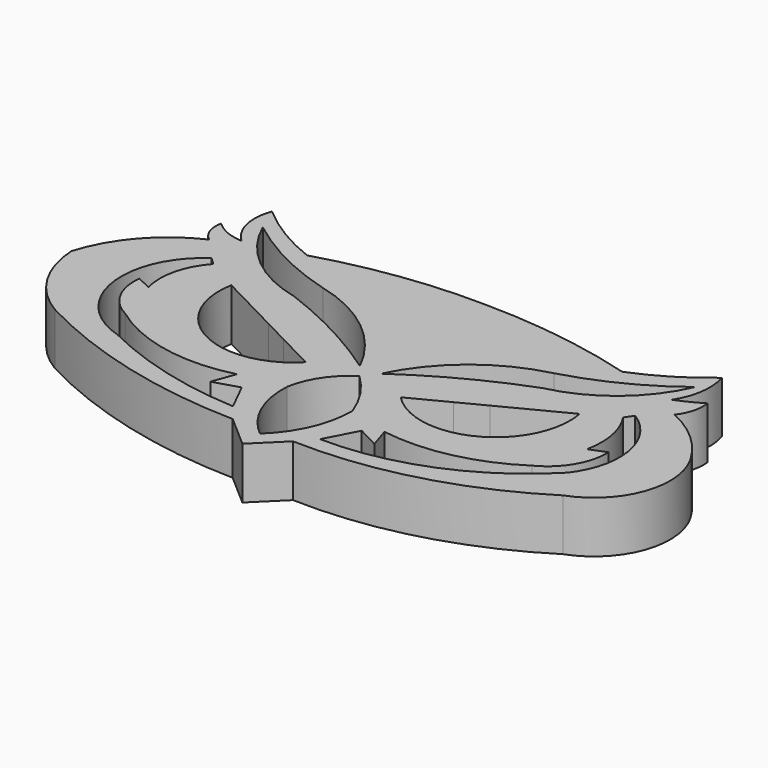
from build123d import *

# Parameters (mm, degrees)
F1_DEPTH = 7


with BuildPart() as f1:
    # F0 (on Top) → F1 (new body)
    with BuildSketch(Plane.XY):
        with BuildLine():
            ThreePointArc((-33.1978872418, 24.7798599303), (-33.0834757558, 22.7654689427), (-31.8994224072, 21.131798625))
            ThreePointArc((-31.8994224072, 21.131798625), (-37.9491495245, 16.6100964199), (-41.6069738567, 10.002123192))
            ThreePointArc((-41.6069738567, 10.002123192), (-39.5495454522, 3.3265737687), (-34.5581807196, -1.5603731154))
            ThreePointArc((-34.5581807196, -1.5603731154), (-19.8946406078, -7.2187581256), (-4.3225614354, -9.3511464074))
            Line((-4.3225614354, -9.3511464074), (0, -13.1228696555))
            Line((0, -13.1228696555), (3.8392005954, -9.3511464074))
            ThreePointArc((3.8392005954, -9.3511464074), (19.4504731476, -7.5377401012), (33.8274911046, -1.1893837946))
            ThreePointArc((33.8274911046, -1.1893837946), (39.9482242909, 4.9505196785), (39.2068363726, 13.5883511975))
            ThreePointArc((39.2068363726, 13.5883511975), (35.8899105198, 17.6875243488), (31.477894634, 20.5753147602))
            ThreePointArc((31.477894634, 20.5753147602), (32.4658862333, 22.5633647209), (32.5908623636, 24.7798599303))
            ThreePointArc((32.5908623636, 24.7798599303), (30.8966861442, 23.8400043647), (29.1282963008, 23.0485759676))
            ThreePointArc((29.1282963008, 23.0485759676), (30.4199988214, 26.5567217253), (30.1176030189, 30.2828643471))
            ThreePointArc((30.1176030189, 30.2828643471), (25.7979668662, 27.1597634239), (21.0283678025, 24.7798599303))
            ThreePointArc((21.0283678025, 24.7798599303), (10.6169463492, 26.9919126813), (0, 27.747772634))
            ThreePointArc((0, 27.747772634), (-10.9014405907, 27.0972820622), (-21.5735584497, 24.7798599303))
            ThreePointArc((-21.5735584497, 24.7798599303), (-26.3855190932, 27.1382027062), (-30.7246260345, 30.2828643471))
            ThreePointArc((-30.7246260345, 30.2828643471), (-30.9978734662, 26.4100339617), (-29.0551744401, 23.0485759676))
            ThreePointArc((-29.0551744401, 23.0485759676), (-31.282323769, 23.5414279438), (-33.1978872418, 24.7798599303))
        make_face()
        with BuildLine():
            ThreePointArc((-25.9017664939, -1.8695309991), (-33.7503475703, 7.0579634382), (-29.0551744401, 17.9783906788))
            Line((-29.0551744401, 17.9783906788), (-28.0658695847, 17.0509181917))
            ThreePointArc((-28.0658695847, 17.0509181917), (-30.1557554553, 13.105925168), (-30.106311664, 8.6418297142))
            Line((-30.106311664, 8.6418297142), (-32.0849195123, 9.5693022013))
            ThreePointArc((-32.0849195123, 9.5693022013), (-31.2882621481, 5.3843879138), (-28.2513629645, 2.3968447931))
            ThreePointArc((-28.2513629645, 2.3968447931), (-19.7085629501, -1.3566931507), (-10.3820515797, -1.0657209205))
            Line((-10.3820515797, -1.0657209205), (-11.4950193092, -4.1572973132))
            Line((-11.4950193092, -4.1572973132), (-8.0942846835, -3.1061612535))
            Line((-8.0942846835, -3.1061612535), (-6.1156759039, -7.0633799769))
            ThreePointArc((-6.1156759039, -7.0633799769), (-16.2750356162, -5.4809865628), (-25.9017664939, -1.8695309991))
        make_face(mode=Mode.SUBTRACT)
        with BuildLine():
            ThreePointArc((-6.4248335548, 5.6120846421), (-18.2829236305, 3.6515341791), (-23.5521681607, 14.4539931789))
            Line((-23.5521681607, 14.4539931789), (-14.9885008577, 10.0330389105))
            Line((-14.9885008577, 10.0330389105), (-11.4866484755, 8.2252235565))
            Line((-11.4866484755, 8.2252235565), (-6.4248335548, 5.6120846421))
        make_face(mode=Mode.SUBTRACT)
        with BuildLine():
            ThreePointArc((0, -10.1549560204), (-3.4356645233, -5.608379356), (-4.4462243095, 0))
            ThreePointArc((-4.4462243095, 0), (-2.9338853411, 3.8058939588), (0, 6.6632204689))
            ThreePointArc((0, 6.6632204689), (2.5812160346, 3.5845194486), (4.395684693, 0))
            ThreePointArc((4.395684693, 0), (3.2653866019, -5.5395763131), (0, -10.1549560204))
        make_face(mode=Mode.SUBTRACT)
        with BuildLine():
            ThreePointArc((28.3863190562, 17.7928954363), (32.9046262681, 11.0282269807), (30.9214107692, 3.138822969))
            ThreePointArc((30.9214107692, 3.138822969), (19.4051476303, -4.6231903079), (5.7559781708, -7.187042851))
            Line((5.7559781708, -7.187042851), (7.9819131643, -2.9206669424))
            Line((7.9819131643, -2.9206669424), (10.9170274232, -4.4520307225))
            Line((10.9170274232, -4.4520307225), (10.0223543122, -1.6222046688))
            ThreePointArc((10.0223543122, -1.6222046688), (18.8690080758, -1.3476793334), (27.0260237157, 2.0876871422))
            ThreePointArc((27.0260237157, 2.0876871422), (30.3026103064, 5.1576516383), (31.4160622656, 9.5074707642))
            Line((31.4160622656, 9.5074707642), (29.1901286691, 8.6418297142))
            ThreePointArc((29.1901286691, 8.6418297142), (29.2288443333, 12.8169576264), (27.6443399489, 16.6799277067))
            Line((27.6443399489, 16.6799277067), (28.3863190562, 17.7928954363))
        make_face(mode=Mode.SUBTRACT)
        with BuildLine():
            Line((11.4866484755, 8.2252235565), (14.9885008577, 10.0330389105))
            Line((14.9885008577, 10.0330389105), (23.5521681607, 14.4539931789))
            ThreePointArc((23.5521681607, 14.4539931789), (18.2829236305, 3.6515341791), (6.4248335548, 5.6120846421))
            Line((6.4248335548, 5.6120846421), (11.4866484755, 8.2252235565))
        make_face(mode=Mode.SUBTRACT)
        with BuildLine():
            ThreePointArc((-16.8125312775, 16.618097201), (-24.2503546691, 20.26833819), (-29.24066782, 26.8821306527))
            ThreePointArc((-29.24066782, 26.8821306527), (-22.7740559507, 22.7868013128), (-15.6377311796, 20.0188308954))
            ThreePointArc((-15.6377311796, 20.0188308954), (-7.2427370511, 15.8566956525), (-1.4164794702, 8.5181659088))
            ThreePointArc((-1.4164794702, 8.5181659088), (-8.8622483515, 13.047612435), (-16.8125312775, 16.618097201))
        make_face(mode=Mode.SUBTRACT)
        with BuildLine():
            ThreePointArc((16.8125312775, 16.618097201), (8.8622483515, 13.047612435), (1.4164794702, 8.5181659088))
            ThreePointArc((1.4164794702, 8.5181659088), (7.2427370511, 15.8566956525), (15.6377311796, 20.0188308954))
            ThreePointArc((15.6377311796, 20.0188308954), (22.7740559507, 22.7868013128), (29.24066782, 26.8821306527))
            ThreePointArc((29.24066782, 26.8821306527), (24.2503546691, 20.26833819), (16.8125312775, 16.618097201))
        make_face(mode=Mode.SUBTRACT)
    extrude(amount=F1_DEPTH)


solid = f1.part
